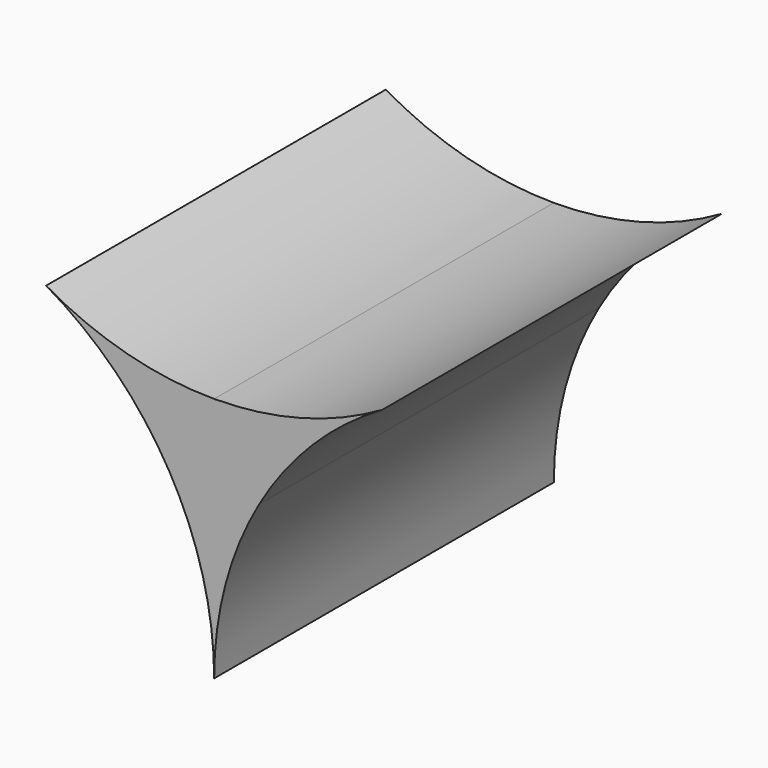
from build123d import *

# Parameters (mm, degrees)
F1_DEPTH = 38.1


with BuildPart() as f1:
    # F0 (on Front) → F1 (new body)
    with BuildSketch(Plane.XZ):
        with BuildLine():
            Line((-4.0410087584, -2.3330774944), (0, 0))
            Line((0, 0), (0, 4.6661549889))
            ThreePointArc((0, 4.6661549889), (-7.8066293313, 5.6939172222), (-15.0812497909, 8.7071636265))
            ThreePointArc((-15.0812497909, 8.7071636265), (-8.8343916271, 3.9137807077), (-4.0410087584, -2.3330774944))
        make_face()
        with BuildLine():
            Line((0, 0), (4.0410087584, -2.3330774944))
            ThreePointArc((4.0410087584, -2.3330774944), (8.8343919533, 3.913781034), (15.0812505899, 8.7071640878))
            ThreePointArc((15.0812505899, 8.7071640878), (7.8066297769, 5.6939173416), (0, 4.6661549889))
            Line((0, 4.6661549889), (0, 0))
        make_face()
        with BuildLine():
            ThreePointArc((0, -17.4143274944), (1.0277622646, -9.6076980465), (4.0410087584, -2.3330774944))
            Line((4.0410087584, -2.3330774944), (0, 0))
            Line((0, 0), (-4.0410087584, -2.3330774944))
            ThreePointArc((-4.0410087584, -2.3330774944), (-1.0277622646, -9.6076980465), (0, -17.4143274944))
        make_face()
    extrude(amount=F1_DEPTH)


solid = f1.part
